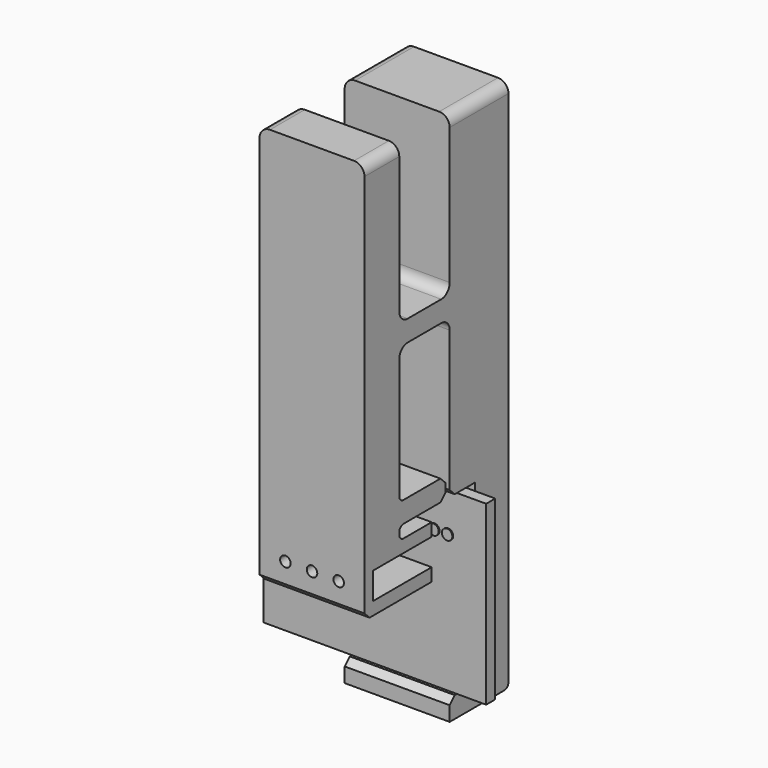
from build123d import *

# Parameters (mm, degrees)
F0_W     = 21.2
F0_H     = 16.85
F0_W_2   = 5.87
F0_H_2   = 4.7
F0_R     = 0.5
F1_DEPTH = 1.08
F2_DEPTH = 2.14
F3_DEPTH = 0.1
F5_DEPTH = 10
F6_W     = 7.72
F6_H     = 2.55
F6_R     = 0.5
F6_W_2   = 1.14
F7_DEPTH = 7
F8_DEPTH = 8.001
F9_R     = 1
F10_SIZE = 0.6
F11_R    = 0.5


with BuildPart() as f1:
    # F0 (on Front) → F1 (new body)
    with BuildSketch(Plane.XZ):
        with Locations((2.18614, 4.248341)):
            Rectangle(F0_W, F0_H)
        with Locations((-0.348842, -1.370112)):
            Rectangle(F0_W_2, F0_H_2, mode=Mode.SUBTRACT)
        with Locations((-0.375639, 4.129823)):
            Rectangle(F0_W_2, F0_H_2, mode=Mode.SUBTRACT)
        with Locations((7.15114, -1.386659)):
            Rectangle(F0_W_2, F0_H_2, mode=Mode.SUBTRACT)
        with Locations((7.124343, 4.113276)):
            Rectangle(F0_W_2, F0_H_2, mode=Mode.SUBTRACT)
        with Locations((-0.402437, 9.629757)):
            Rectangle(F0_W_2, F0_H_2, mode=Mode.SUBTRACT)
        with Locations((7.097545, 9.613211)):
            Rectangle(F0_W_2, F0_H_2, mode=Mode.SUBTRACT)
        with Locations((-0.402437, 9.629757)):
            Rectangle(F0_W_2, F0_H_2)
        with Locations((7.097545, 9.613211)):
            Rectangle(F0_W_2, F0_H_2)
        with Locations((5.40614, 8.943113)):
            Circle(F0_R, mode=Mode.SUBTRACT)
        with Locations((6.62614, 8.943113)):
            Circle(F0_R, mode=Mode.SUBTRACT)
        with Locations((7.84614, 8.943113)):
            Circle(F0_R, mode=Mode.SUBTRACT)
        with Locations((9.14614, 8.943113)):
            Circle(F0_R, mode=Mode.SUBTRACT)
        with Locations((-0.375639, 4.129823)):
            Rectangle(F0_W_2, F0_H_2)
        with Locations((7.124343, 4.113276)):
            Rectangle(F0_W_2, F0_H_2)
        with Locations((-0.348842, -1.370112)):
            Rectangle(F0_W_2, F0_H_2)
        with Locations((7.15114, -1.386659)):
            Rectangle(F0_W_2, F0_H_2)
    extrude(amount=-F1_DEPTH)

    # F0 (on Front) → F2 (join)
    with BuildSketch(Plane.XZ):
        with Locations((-0.348842, -1.370112)):
            Rectangle(F0_W_2, F0_H_2)
        with Locations((-0.375639, 4.129823)):
            Rectangle(F0_W_2, F0_H_2)
        with Locations((-0.402437, 9.629757)):
            Rectangle(F0_W_2, F0_H_2)
        with Locations((7.15114, -1.386659)):
            Rectangle(F0_W_2, F0_H_2)
        with Locations((7.124343, 4.113276)):
            Rectangle(F0_W_2, F0_H_2)
        with Locations((7.097545, 9.613211)):
            Rectangle(F0_W_2, F0_H_2)
        with Locations((5.40614, 8.943113)):
            Circle(F0_R, mode=Mode.SUBTRACT)
        with Locations((6.62614, 8.943113)):
            Circle(F0_R, mode=Mode.SUBTRACT)
        with Locations((7.84614, 8.943113)):
            Circle(F0_R, mode=Mode.SUBTRACT)
        with Locations((9.14614, 8.943113)):
            Circle(F0_R, mode=Mode.SUBTRACT)
        with Locations((5.40614, 8.943113)):
            Circle(F0_R)
        with Locations((6.62614, 8.943113)):
            Circle(F0_R)
        with Locations((7.84614, 8.943113)):
            Circle(F0_R)
        with Locations((9.14614, 8.943113)):
            Circle(F0_R)
    extrude(amount=-F2_DEPTH)

    # F0 (on Front) → F3 (join)
    with BuildSketch(Plane.XZ):
        with Locations((5.40614, 8.943113)):
            Circle(F0_R)
        with Locations((6.62614, 8.943113)):
            Circle(F0_R)
        with Locations((7.84614, 8.943113)):
            Circle(F0_R)
        with Locations((9.14614, 8.943113)):
            Circle(F0_R)
    extrude(amount=F3_DEPTH)


with BuildPart() as f5:
    # F4 (on Right) → F5 (new body)
    with BuildSketch(Plane.YZ):
        Polygon((2.14, 12.673341), (2.14, 11.979757), (2.14, 7.279757), (2.14, -4.176659), (-0.86, -4.176659), (-0.86, -6.176659), (6.14, -6.176659), (6.14, 44.673341), (-0.86, 44.673341), (-0.86, 29.673341), (-6.86, 29.673341), (-6.86, 44.673341), (-11, 44.673341), (-11, 6.443113), (-3, 6.443113), (-3, 11.443113), (-6.86, 11.443113), (-6.86, 12.673341), (-1.36, 12.673341), (-1.36, 14.673341), (-6.86, 14.673341), (-6.86, 27.673341), (-0.86, 27.673341), (-0.86, 12.673341), (0, 12.673341), (1.08, 12.673341), align=None)
    extrude(amount=F5_DEPTH)

    # F6 (on face) → F7 (cut)
    with BuildSketch(Plane(origin=(0, -3, 0), x_dir=(-1, 0, 0), z_dir=(0, 1, 0))):
        with Locations((-5, 8.943113)):
            Rectangle(F6_W, F6_H)
        with Locations((-7.54, 8.943113)):
            Circle(F6_R, mode=Mode.SUBTRACT)
        with Locations((-5, 8.943113)):
            Circle(F6_R, mode=Mode.SUBTRACT)
        with Locations((-2.46, 8.943113)):
            Circle(F6_R, mode=Mode.SUBTRACT)
        with Locations((-9.43, 8.943113)):
            Rectangle(F6_W_2, F6_H)
        with Locations((-7.54, 8.943113)):
            Circle(F6_R)
        with Locations((-5, 8.943113)):
            Circle(F6_R)
        with Locations((-2.46, 8.943113)):
            Circle(F6_R)
    extrude(amount=-F7_DEPTH, mode=Mode.SUBTRACT)

    # F6 (on face) → F8 (cut, through all)
    with BuildSketch(Plane(origin=(0, -3, 0), x_dir=(-1, 0, 0), z_dir=(0, 1, 0))):
        with Locations((-2.46, 8.943113)):
            Circle(F6_R)
        with Locations((-5, 8.943113)):
            Circle(F6_R)
        with Locations((-7.54, 8.943113)):
            Circle(F6_R)
    extrude(amount=-F8_DEPTH, mode=Mode.SUBTRACT)

    # F9
    f9_edges = [f5.edges().sort_by_distance(p)[0] for p in [
        (5, -0.86, 29.673341),
        (5, -0.86, 27.673341),
        (5, -6.86, 27.673341),
        (5, -6.86, 29.673341),
        (10, -8.93, 44.673341),
        (0, -8.93, 44.673341),
        (0, 2.64, 44.673341),
        (10, 2.64, 44.673341),
    ]]
    fillet(f9_edges, radius=F9_R)

    # F10
    f10_edges = [f5.edges().sort_by_distance(p)[0] for p in [
        (5, -11, 6.443113),
        (5, -0.86, -4.176659),
        (5, -0.86, 12.673341),
        (5, -1.36, 12.673341),
        (5, -1.36, 14.673341),
    ]]
    chamfer(f10_edges, length=F10_SIZE)

    # F11
    f11_edges = [f5.edges().sort_by_distance(p)[0] for p in [
        (5, -6.86, 12.673341),
        (5, -6.86, 14.673341),
        (5, -6.86, 11.443113),
        (5, 6.14, -6.176659),
    ]]
    fillet(f11_edges, radius=F11_R)


solid = Compound([f1.part, f5.part])
